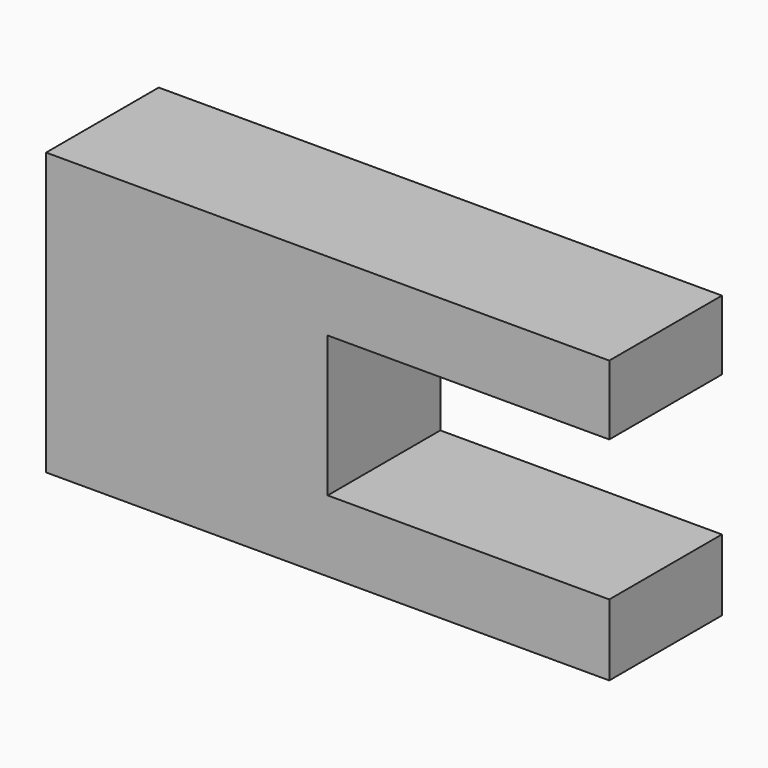
from build123d import *

# Parameters (mm, degrees)
F0_W     = 101.6
F0_H     = 50.8
F1_DEPTH = 25.4
F2_W     = 50.8
F2_H     = 25.4
F3_DEPTH = 25.401


with BuildPart() as f1:
    # F0 (on Front) → F1 (new body)
    with BuildSketch(Plane.XZ):
        Rectangle(F0_W, F0_H)
    extrude(amount=F1_DEPTH)

    # F2 (on Front) → F3 (cut, through all)
    with BuildSketch(Plane.XZ):
        with Locations((25.4, 0.16907)):
            Rectangle(F2_W, F2_H)
    extrude(amount=F3_DEPTH, mode=Mode.SUBTRACT)


solid = f1.part
